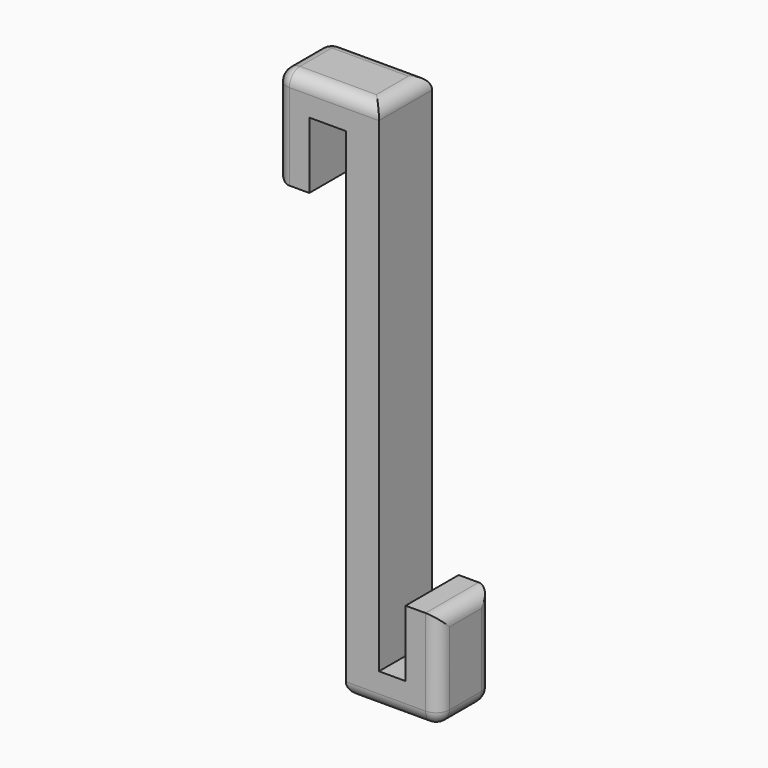
from build123d import *

# Parameters (mm, degrees)
F1_DEPTH = 10
F2_R     = 2


with BuildPart() as f1:
    # F0 (on Front) → F1 (new body)
    with BuildSketch(Plane.XZ):
        Polygon((0, 15), (0, 0), (5, 0), (5, 10), (10.5, 10), (10.5, -65), (24.5, -65), (24.5, -50), (19.5, -50), (19.5, -60), (15.5, -60), (15.5, 15), align=None)
    extrude(amount=F1_DEPTH)

    # F2
    f2_edges = [f1.edges().sort_by_distance(p)[0] for p in [
        (0, -5, 15),
        (15.5, -5, 15),
        (10.5, -5, -65),
        (24.5, -5, -50),
        (24.5, -5, -65),
        (0, -5, 0),
        (0, -10, 7.5),
        (0, 0, 7.5),
        (24.5, 0, -57.5),
        (24.5, -10, -57.5),
        (17.5, -10, -65),
        (17.5, 0, -65),
        (7.75, -10, 15),
        (7.75, 0, 15),
    ]]
    fillet(f2_edges, radius=F2_R)


solid = f1.part
